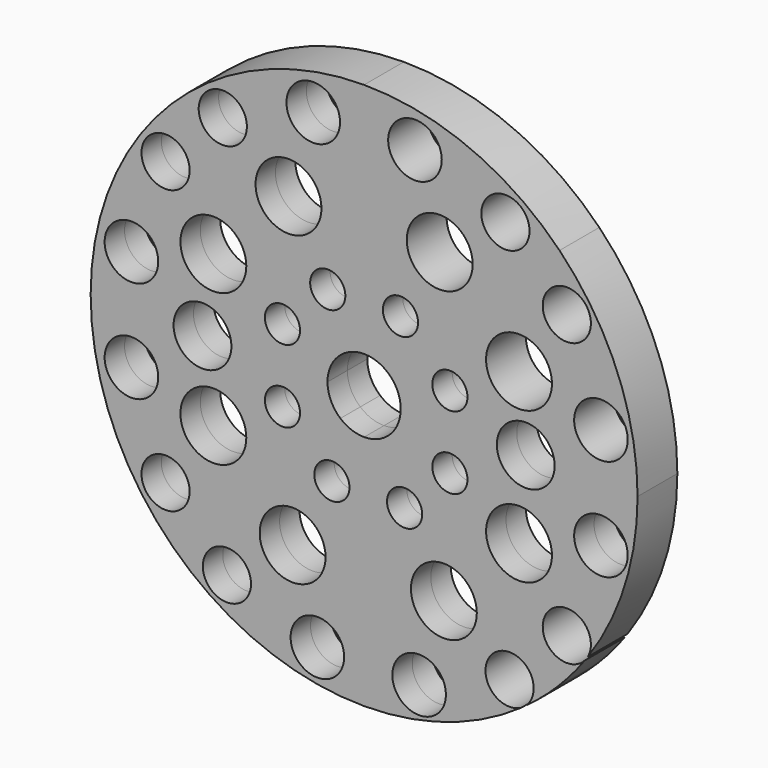
from build123d import *

# Parameters (mm, degrees)
F0_R     = 4.493782
F0_R_2   = 8.414158
F0_R_3   = 6.15385
F0_R_4   = 6.841255
F1_DEPTH = 6.35


with BuildPart() as f1:
    # F0 (on Front) → F1 (new body, symmetric)
    with BuildSketch(Plane.XZ):
        with BuildLine():
            Line((0, 9.352685), (0, 69.849999))
            ThreePointArc((0, 69.849999), (-26.730437, 64.532984), (-49.391408, 49.391408))
            Line((-49.391408, 49.391408), (-6.613347, 6.613347))
            ThreePointArc((-6.613347, 6.613347), (-3.579118, 8.640754), (0, 9.352685))
        make_face()
        with Locations((-9.287155, 20.851616)):
            Circle(F0_R, mode=Mode.SUBTRACT)
        with Locations((-19.314256, 38.508028)):
            Circle(F0_R_2, mode=Mode.SUBTRACT)
        with Locations((-36.098748, 50.714932)):
            Circle(F0_R_3, mode=Mode.SUBTRACT)
        with Locations((-12.992823, 59.434153)):
            Circle(F0_R_4, mode=Mode.SUBTRACT)
        with BuildLine():
            Line((7.121327, 6.062955), (49.917759, 48.859387))
            ThreePointArc((49.917759, 48.859387), (27.075766, 64.388859), (0, 69.849999))
            Line((0, 69.849999), (0, 9.352685))
            ThreePointArc((0, 9.352685), (3.922232, 8.490513), (7.121327, 6.062955))
        make_face()
        with Locations((9.287155, 20.851616)):
            Circle(F0_R, mode=Mode.SUBTRACT)
        with Locations((19.314256, 38.508028)):
            Circle(F0_R_2, mode=Mode.SUBTRACT)
        with Locations((36.098748, 50.714932)):
            Circle(F0_R_3, mode=Mode.SUBTRACT)
        with Locations((12.992823, 59.434153)):
            Circle(F0_R_4, mode=Mode.SUBTRACT)
        with BuildLine():
            Line((48.668913, 0), (69.849999, 0))
            ThreePointArc((69.849999, 0), (64.675257, 26.384341), (49.917759, 48.859387))
            Line((49.917759, 48.859387), (7.121327, 6.062955))
            ThreePointArc((7.121327, 6.062955), (8.777136, 3.230262), (9.352685, 0))
            Line((9.352685, 0), (33.899703, 0))
            ThreePointArc((33.899703, 0), (41.284308, 7.384605), (48.668913, 0))
        make_face()
        with Locations((21.909988, 8.228783)):
            Circle(F0_R, mode=Mode.SUBTRACT)
        with Locations((39.5664, 18.255884)):
            Circle(F0_R_2, mode=Mode.SUBTRACT)
        with Locations((60.492525, 11.934451)):
            Circle(F0_R_4, mode=Mode.SUBTRACT)
        with Locations((51.773304, 35.040376)):
            Circle(F0_R_3, mode=Mode.SUBTRACT)
        with BuildLine():
            ThreePointArc((57.120882, -40.202329), (66.591726, -21.084696), (69.849999, 0))
            Line((69.849999, 0), (48.668913, 0))
            ThreePointArc((48.668913, 0), (41.284308, -7.384605), (33.899703, 0))
            Line((33.899703, 0), (9.352685, 0))
            ThreePointArc((9.352685, 0), (8.640754, -3.579118), (6.613347, -6.613347))
            Line((6.613347, -6.613347), (49.391408, -49.391408))
            ThreePointArc((49.391408, -49.391408), (53.037147, -45.45419), (56.369892, -41.248728))
            ThreePointArc((56.369892, -41.248728), (46.021931, -34.968153), (57.927155, -37.15712))
            ThreePointArc((57.927155, -37.15712), (57.722172, -38.732189), (57.120882, -40.202329))
        make_face()
        with Locations((21.909988, -10.345527)):
            Circle(F0_R, mode=Mode.SUBTRACT)
        with Locations((39.5664, -20.372628)):
            Circle(F0_R_2, mode=Mode.SUBTRACT)
        with Locations((60.492525, -14.051196)):
            Circle(F0_R_4, mode=Mode.SUBTRACT)
        with BuildLine():
            ThreePointArc((41.248728, -56.369892), (45.45419, -53.037147), (49.391408, -49.391408))
            Line((49.391408, -49.391408), (6.613347, -6.613347))
            ThreePointArc((6.613347, -6.613347), (3.579118, -8.640754), (0, -9.352685))
            Line((0, -9.352685), (0, -69.849999))
            ThreePointArc((0, -69.849999), (21.084696, -66.591726), (40.202329, -57.120882))
            ThreePointArc((40.202329, -57.120882), (31.836894, -48.680561), (43.310971, -51.773304))
            ThreePointArc((43.310971, -51.773304), (42.771789, -54.292305), (41.248728, -56.369892))
        make_face()
        with Locations((14.051196, -60.492525)):
            Circle(F0_R_4, mode=Mode.SUBTRACT)
        with Locations((20.372628, -39.5664)):
            Circle(F0_R_2, mode=Mode.SUBTRACT)
        with Locations((10.345527, -21.909988)):
            Circle(F0_R, mode=Mode.SUBTRACT)
        with BuildLine():
            ThreePointArc((-48.859387, -49.917759), (-26.384341, -64.675257), (0, -69.849999))
            Line((0, -69.849999), (0, -9.352685))
            ThreePointArc((0, -9.352685), (-3.230262, -8.777136), (-6.062955, -7.121327))
            Line((-6.062955, -7.121327), (-48.859387, -49.917759))
        make_face()
        with Locations((-11.934451, -60.492525)):
            Circle(F0_R_4, mode=Mode.SUBTRACT)
        with Locations((-35.040376, -51.773304)):
            Circle(F0_R_3, mode=Mode.SUBTRACT)
        with Locations((-18.255884, -39.5664)):
            Circle(F0_R_2, mode=Mode.SUBTRACT)
        with Locations((-8.228783, -21.909988)):
            Circle(F0_R, mode=Mode.SUBTRACT)
        with BuildLine():
            ThreePointArc((-69.849999, 0), (-64.388859, -27.075766), (-48.859387, -49.917759))
            Line((-48.859387, -49.917759), (-6.062955, -7.121327))
            ThreePointArc((-6.062955, -7.121327), (-8.490513, -3.922232), (-9.352685, 0))
            Line((-9.352685, 0), (-33.899703, 0))
            ThreePointArc((-33.899703, 0), (-41.284308, -7.384605), (-48.668913, 0))
            Line((-48.668913, 0), (-69.849999, 0))
        make_face()
        with Locations((-50.714932, -36.098748)):
            Circle(F0_R_3, mode=Mode.SUBTRACT)
        with Locations((-38.508028, -19.314256)):
            Circle(F0_R_2, mode=Mode.SUBTRACT)
        with Locations((-59.434153, -12.992823)):
            Circle(F0_R_4, mode=Mode.SUBTRACT)
        with Locations((-20.851616, -9.287155)):
            Circle(F0_R, mode=Mode.SUBTRACT)
        with BuildLine():
            Line((-6.613347, 6.613347), (-49.391408, 49.391408))
            ThreePointArc((-49.391408, 49.391408), (-64.532984, 26.730437), (-69.849999, 0))
            Line((-69.849999, 0), (-48.668913, 0))
            ThreePointArc((-48.668913, 0), (-41.284308, 7.384605), (-33.899703, 0))
            Line((-33.899703, 0), (-9.352685, 0))
            ThreePointArc((-9.352685, 0), (-8.640754, 3.579118), (-6.613347, 6.613347))
        make_face()
        with Locations((-59.434153, 12.992823)):
            Circle(F0_R_4, mode=Mode.SUBTRACT)
        with Locations((-38.508028, 19.314256)):
            Circle(F0_R_2, mode=Mode.SUBTRACT)
        with Locations((-50.714932, 36.098748)):
            Circle(F0_R_3, mode=Mode.SUBTRACT)
        with Locations((-20.851616, 9.287155)):
            Circle(F0_R, mode=Mode.SUBTRACT)
    extrude(amount=F1_DEPTH, both=True)


solid = f1.part
